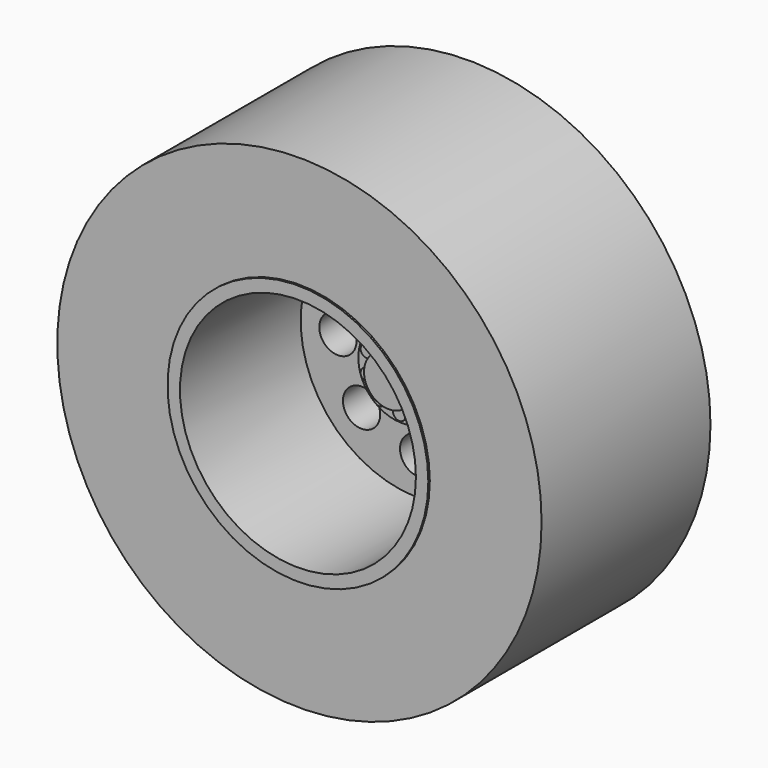
from build123d import *

# Parameters (mm, degrees)
F0_R      = 19.5
F1_DEPTH  = 17
F2_R      = 9.5
F3_DEPTH  = 12
F4_R      = 10.5
F4_R_2    = 9.5
F5_DEPTH  = 0.15
F6_R      = 2
F7_DEPTH  = 3
F8_R      = 3.5
F8_R_2    = 2
F9_DEPTH  = 1.7
F10_R     = 0.5
F11_DEPTH = 0.25
F12_R     = 1.5
F13_DEPTH = 25


with BuildPart() as f1:
    # F0 (on Front) → F1 (new body)
    with BuildSketch(Plane.XZ):
        Circle(F0_R)
    extrude(amount=F1_DEPTH)

    # F2 (on face) → F3 (cut)
    with BuildSketch(Plane.XZ.offset(17)):
        Circle(F2_R)
    extrude(amount=-F3_DEPTH, mode=Mode.SUBTRACT)

    # F4 (on face) → F5 (join)
    with BuildSketch(Plane.XZ.offset(17)):
        Circle(F4_R)
        Circle(F4_R_2, mode=Mode.SUBTRACT)
    extrude(amount=F5_DEPTH)

    # F6 (on face) → F7 (join)
    with BuildSketch(Plane.XZ.offset(5)):
        Circle(F6_R)
    extrude(amount=F7_DEPTH)

    # F8 (on face) → F9 (join)
    with BuildSketch(Plane.XZ.offset(5)):
        Circle(F8_R)
        Circle(F8_R_2, mode=Mode.SUBTRACT)
    extrude(amount=F9_DEPTH)

    # F10 (on face) → F11 (join)
    with BuildSketch(Plane.XZ.offset(6.7)):
        with Locations((0, 2.75)):
            Circle(F10_R)
        with Locations((1.6164094438, 2.2247967345)):
            Circle(F10_R)
        with Locations((2.6154054198, -0.8497967345)):
            Circle(F10_R)
        with Locations((1.6164094438, -2.2247967345)):
            Circle(F10_R)
        with Locations((0, -2.75)):
            Circle(F10_R)
        with Locations((2.6154054198, 0.8497967345)):
            Circle(F10_R)
        with Locations((-1.6164094438, -2.2247967345)):
            Circle(F10_R)
        with Locations((-2.6154054198, -0.8497967345)):
            Circle(F10_R)
        with Locations((-2.6154054198, 0.8497967345)):
            Circle(F10_R)
        with Locations((-1.6164094438, 2.2247967345)):
            Circle(F10_R)
    extrude(amount=F11_DEPTH)

    # F12 (on face) → F13 (cut)
    with BuildSketch(Plane.XZ.offset(5)):
        with Locations((0, 6.5)):
            Circle(F12_R)
        with Locations((4.5961940777, 4.5961940777)):
            Circle(F12_R)
        with Locations((6.5, 0)):
            Circle(F12_R)
        with Locations((-4.5961940777, 4.5961940777)):
            Circle(F12_R)
        with Locations((-6.5, 0)):
            Circle(F12_R)
        with Locations((-4.5961940777, -4.5961940777)):
            Circle(F12_R)
        with Locations((4.5961940777, -4.5961940777)):
            Circle(F12_R)
        with Locations((0, -6.5)):
            Circle(F12_R)
    extrude(amount=-F13_DEPTH, mode=Mode.SUBTRACT)


solid = f1.part
